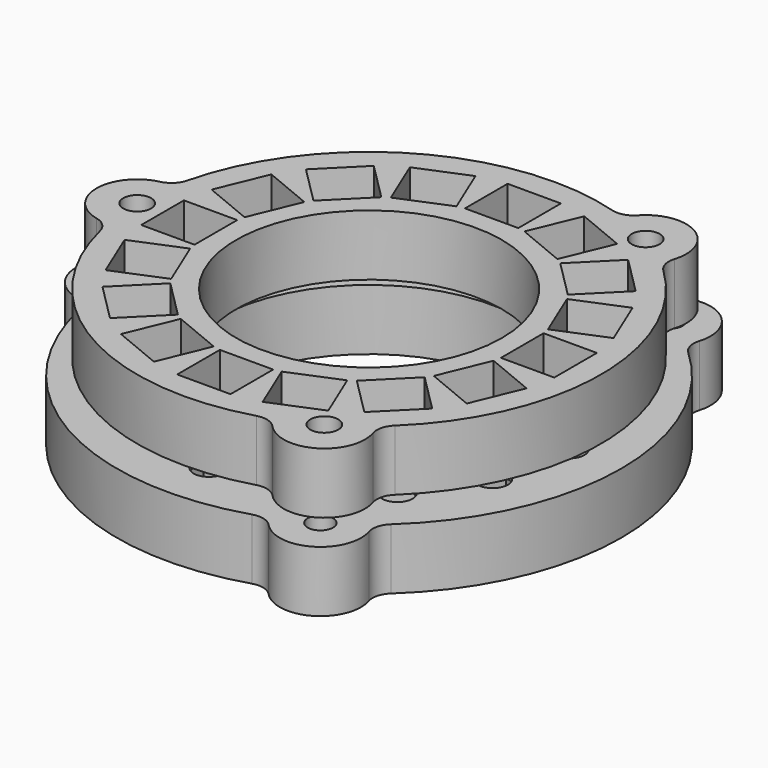
from build123d import *

# Parameters (mm, degrees)
F2_R      = 1.5
F2_R_2    = 1.375
F2_R_3    = 13.082018
F3_DEPTH  = 6
F4_W      = 5.25
F4_H      = 5.25
F5_DEPTH  = 6
F7_R      = 1.5
F7_R_2    = 1.25
F7_R_3    = 15.082018
F8_DEPTH  = 6
F10_W     = 5.25
F10_H     = 5.25
F11_DEPTH = 6
F12_R     = 2
F12_2_R   = 2


with BuildPart() as f3:
    # F2 (on offset) → F3 (new body)
    with BuildSketch(Plane.XY.offset(-0.5)):
        with BuildLine():
            ThreePointArc((7.790031, 21.461978), (-11.416009, 19.773108), (-22.481633, 3.984624))
            ThreePointArc((-22.481633, 3.984624), (-26.832018, 0), (-22.481633, -3.984624))
            ThreePointArc((-22.481633, -3.984624), (-11.416009, -19.773108), (7.790031, -21.461978))
            ThreePointArc((7.790031, -21.461978), (13.416009, -23.23721), (14.691602, -17.477353))
            ThreePointArc((14.691602, -17.477353), (22.832018, 0), (14.691602, 17.477353))
            ThreePointArc((14.691602, 17.477353), (13.416009, 23.23721), (7.790031, 21.461978))
        make_face()
        with Locations((-12.520753, -12.520753)):
            Circle(F2_R, mode=Mode.SUBTRACT)
        with Locations((-6.776183, -16.359152)):
            Circle(F2_R, mode=Mode.SUBTRACT)
        with Locations((-16.359152, -6.776183)):
            Circle(F2_R, mode=Mode.SUBTRACT)
        with Locations((-22.832018, 0)):
            Circle(F2_R_2, mode=Mode.SUBTRACT)
        with Locations((0, -17.707018)):
            Circle(F2_R, mode=Mode.SUBTRACT)
        with Locations((6.776183, -16.359152)):
            Circle(F2_R, mode=Mode.SUBTRACT)
        with Locations((11.416009, -19.773108)):
            Circle(F2_R_2, mode=Mode.SUBTRACT)
        with Locations((12.520753, -12.520753)):
            Circle(F2_R, mode=Mode.SUBTRACT)
        Circle(F2_R_3, mode=Mode.SUBTRACT)
        with Locations((16.359152, -6.776183)):
            Circle(F2_R, mode=Mode.SUBTRACT)
        with Locations((17.707018, 0)):
            Circle(F2_R, mode=Mode.SUBTRACT)
        with Locations((-17.707018, 0)):
            Circle(F2_R, mode=Mode.SUBTRACT)
        with Locations((-16.359152, 6.776183)):
            Circle(F2_R, mode=Mode.SUBTRACT)
        with Locations((-12.520753, 12.520753)):
            Circle(F2_R, mode=Mode.SUBTRACT)
        with Locations((-6.776183, 16.359152)):
            Circle(F2_R, mode=Mode.SUBTRACT)
        with Locations((16.359152, 6.776183)):
            Circle(F2_R, mode=Mode.SUBTRACT)
        with Locations((0, 17.707018)):
            Circle(F2_R, mode=Mode.SUBTRACT)
        with Locations((6.776183, 16.359152)):
            Circle(F2_R, mode=Mode.SUBTRACT)
        with Locations((12.520753, 12.520753)):
            Circle(F2_R, mode=Mode.SUBTRACT)
        with Locations((11.416009, 19.773108)):
            Circle(F2_R_2, mode=Mode.SUBTRACT)
    extrude(amount=F3_DEPTH)

    # F4 (on Top) → F5 (cut)
    with BuildSketch(Plane.XY):
        with Locations((17.707018, 0)):
            Rectangle(F4_W, F4_H)
        Polygon((17.779792, 10.20591), (12.929424, 8.196822), (14.938512, 3.346455), (19.78888, 5.355543), align=None)
        Polygon((12.520753, 16.233063), (8.808442, 12.520753), (12.520753, 8.808442), (16.233063, 12.520753), align=None)
        Polygon((5.355543, 19.78888), (3.346455, 14.938512), (8.196822, 12.929424), (10.20591, 17.779792), align=None)
        with Locations((0, 17.707018)):
            Rectangle(F4_W, F4_H)
        Polygon((-10.20591, 17.779792), (-8.196822, 12.929424), (-3.346455, 14.938512), (-5.355543, 19.78888), align=None)
        Polygon((-16.233063, 12.520753), (-12.520753, 8.808442), (-8.808442, 12.520753), (-12.520753, 16.233063), align=None)
        Polygon((-19.78888, 5.355543), (-14.938512, 3.346455), (-12.929424, 8.196822), (-17.779792, 10.20591), align=None)
        with Locations((-17.707018, 0)):
            Rectangle(F4_W, F4_H)
        Polygon((-17.779792, -10.20591), (-12.929424, -8.196822), (-14.938512, -3.346455), (-19.78888, -5.355543), align=None)
        Polygon((-12.520753, -16.233063), (-8.808442, -12.520753), (-12.520753, -8.808442), (-16.233063, -12.520753), align=None)
        Polygon((-5.355543, -19.78888), (-3.346455, -14.938512), (-8.196822, -12.929424), (-10.20591, -17.779792), align=None)
        with Locations((0, -17.707018)):
            Rectangle(F4_W, F4_H)
        Polygon((10.20591, -17.779792), (8.196822, -12.929424), (3.346455, -14.938512), (5.355543, -19.78888), align=None)
        Polygon((16.233063, -12.520753), (12.520753, -8.808442), (8.808442, -12.520753), (12.520753, -16.233063), align=None)
        Polygon((19.78888, -5.355543), (14.938512, -3.346455), (12.929424, -8.196822), (17.779792, -10.20591), align=None)
    extrude(amount=F5_DEPTH, mode=Mode.SUBTRACT)

    # F12#2
    f12_2_edges = [f3.edges().sort_by_distance(p)[0] for p in [
        (-22.481633, 3.984624, 2.5),
        (-22.481633, -3.984624, 2.5),
        (7.790031, -21.461978, 2.5),
        (14.691602, -17.477353, 2.5),
        (14.691602, 17.477353, 2.5),
        (7.790031, 21.461978, 2.5),
    ]]
    fillet(f12_2_edges, radius=F12_2_R)


with BuildPart() as f8:
    # F7 (on offset) → F8 (new body)
    with BuildSketch(Plane.XY.offset(-2)):
        with BuildLine():
            ThreePointArc((-24.509854, 3.987005), (-28.832018, 0), (-24.509854, -3.987005))
            ThreePointArc((-24.509854, -3.987005), (-12.416009, -21.505159), (8.802079, -23.219659))
            ThreePointArc((8.802079, -23.219659), (14.416009, -24.96926), (15.707775, -19.232653))
            ThreePointArc((15.707775, -19.232653), (24.832018, 0), (15.707775, 19.232653))
            ThreePointArc((15.707775, 19.232653), (14.416009, 24.96926), (8.802079, 23.219659))
            ThreePointArc((8.802079, 23.219659), (-12.416009, 21.505159), (-24.509854, 3.987005))
        make_face()
        with Locations((-13.934966, -13.934966)):
            Circle(F7_R, mode=Mode.SUBTRACT)
        with Locations((-7.541549, -18.206911)):
            Circle(F7_R, mode=Mode.SUBTRACT)
        with Locations((-18.206911, -7.541549)):
            Circle(F7_R, mode=Mode.SUBTRACT)
        with Locations((0, -19.707018)):
            Circle(F7_R, mode=Mode.SUBTRACT)
        with Locations((7.541549, -18.206911)):
            Circle(F7_R, mode=Mode.SUBTRACT)
        with Locations((12.416009, -21.505159)):
            Circle(F7_R_2, mode=Mode.SUBTRACT)
        with Locations((13.934966, -13.934966)):
            Circle(F7_R, mode=Mode.SUBTRACT)
        with Locations((18.206911, -7.541549)):
            Circle(F7_R, mode=Mode.SUBTRACT)
        with Locations((-24.832018, 0)):
            Circle(F7_R_2, mode=Mode.SUBTRACT)
        with Locations((-19.707018, 0)):
            Circle(F7_R, mode=Mode.SUBTRACT)
        with Locations((-18.206911, 7.541549)):
            Circle(F7_R, mode=Mode.SUBTRACT)
        with Locations((-13.934966, 13.934966)):
            Circle(F7_R, mode=Mode.SUBTRACT)
        with Locations((-7.541549, 18.206911)):
            Circle(F7_R, mode=Mode.SUBTRACT)
        Circle(F7_R_3, mode=Mode.SUBTRACT)
        with Locations((19.707018, 0)):
            Circle(F7_R, mode=Mode.SUBTRACT)
        with Locations((18.206911, 7.541549)):
            Circle(F7_R, mode=Mode.SUBTRACT)
        with Locations((7.541549, 18.206911)):
            Circle(F7_R, mode=Mode.SUBTRACT)
        with Locations((0, 19.707018)):
            Circle(F7_R, mode=Mode.SUBTRACT)
        with Locations((13.934966, 13.934966)):
            Circle(F7_R, mode=Mode.SUBTRACT)
        with Locations((12.416009, 21.505159)):
            Circle(F7_R_2, mode=Mode.SUBTRACT)
    extrude(amount=-F8_DEPTH)

    # F10 (on offset) → F11 (cut)
    with BuildSketch(Plane.XY.offset(-2.5)):
        with Locations((19.707018, 0)):
            Rectangle(F10_W, F10_H)
        Polygon((19.627551, 10.971277), (14.777183, 8.962189), (16.786271, 4.111822), (21.636639, 6.12091), align=None)
        Polygon((13.934966, 17.647277), (10.222656, 13.934966), (13.934966, 10.222656), (17.647277, 13.934966), align=None)
        Polygon((6.12091, 21.636639), (4.111822, 16.786271), (8.962189, 14.777183), (10.971277, 19.627551), align=None)
        with Locations((0, 19.707018)):
            Rectangle(F10_W, F10_H)
        Polygon((-10.971277, 19.627551), (-8.962189, 14.777183), (-4.111822, 16.786271), (-6.12091, 21.636639), align=None)
        Polygon((-17.647277, 13.934966), (-13.934966, 10.222656), (-10.222656, 13.934966), (-13.934966, 17.647277), align=None)
        Polygon((-21.636639, 6.12091), (-16.786271, 4.111822), (-14.777183, 8.962189), (-19.627551, 10.971277), align=None)
        with Locations((-19.707018, 0)):
            Rectangle(F10_W, F10_H)
        Polygon((-19.627551, -10.971277), (-14.777183, -8.962189), (-16.786271, -4.111822), (-21.636639, -6.12091), align=None)
        Polygon((-13.934966, -17.647277), (-10.222656, -13.934966), (-13.934966, -10.222656), (-17.647277, -13.934966), align=None)
        Polygon((-6.12091, -21.636639), (-4.111822, -16.786271), (-8.962189, -14.777183), (-10.971277, -19.627551), align=None)
        with Locations((0, -19.707018)):
            Rectangle(F10_W, F10_H)
        Polygon((10.971277, -19.627551), (8.962189, -14.777183), (4.111822, -16.786271), (6.12091, -21.636639), align=None)
        Polygon((17.647277, -13.934966), (13.934966, -10.222656), (10.222656, -13.934966), (13.934966, -17.647277), align=None)
        Polygon((21.636639, -6.12091), (16.786271, -4.111822), (14.777183, -8.962189), (19.627551, -10.971277), align=None)
    extrude(amount=-F11_DEPTH, mode=Mode.SUBTRACT)

    # F12
    f12_edges = [f8.edges().sort_by_distance(p)[0] for p in [
        (8.802079, 23.219659, -5),
        (15.707775, 19.232653, -5),
        (15.707775, -19.232653, -5),
        (8.802079, -23.219659, -5),
        (-24.509854, -3.987005, -5),
        (-24.509854, 3.987005, -5),
    ]]
    fillet(f12_edges, radius=F12_R)


solid = Compound([f3.part, f8.part])
